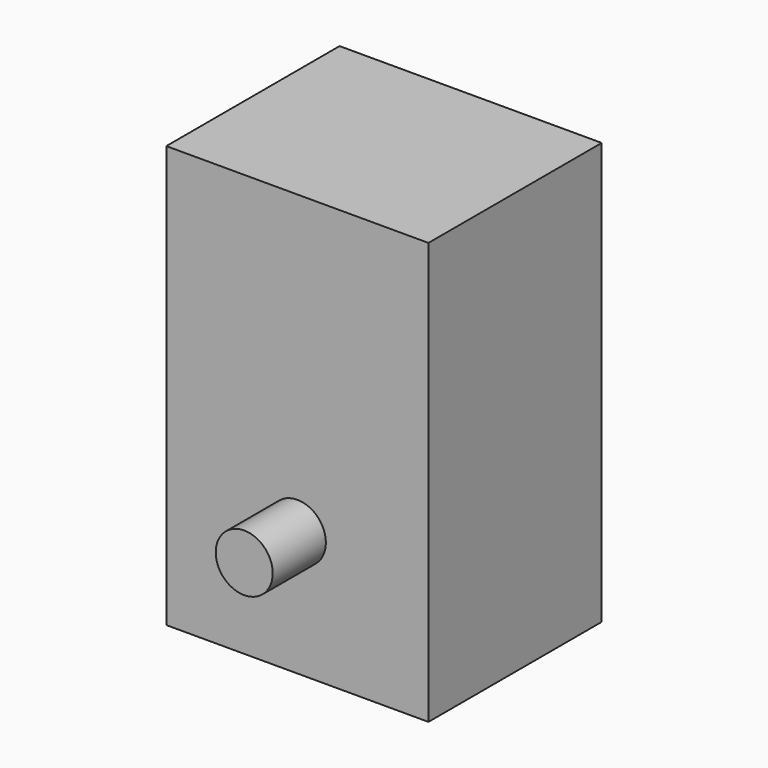
from build123d import *

# Parameters (mm, degrees)
F0_W     = 23
F0_H     = 19
F1_DEPTH = 37
F2_R     = 2.5
F3_DEPTH = 5.83


with BuildPart() as f1:
    # F0 (on Top) → F1 (new body)
    with BuildSketch(Plane.XY):
        Rectangle(F0_W, F0_H)
    extrude(amount=F1_DEPTH)

    # F2 (on face) → F3 (join)
    with BuildSketch(Plane.XZ.offset(9.5)):
        with Locations((0, 10.92)):
            Circle(F2_R)
    extrude(amount=F3_DEPTH)


solid = f1.part
